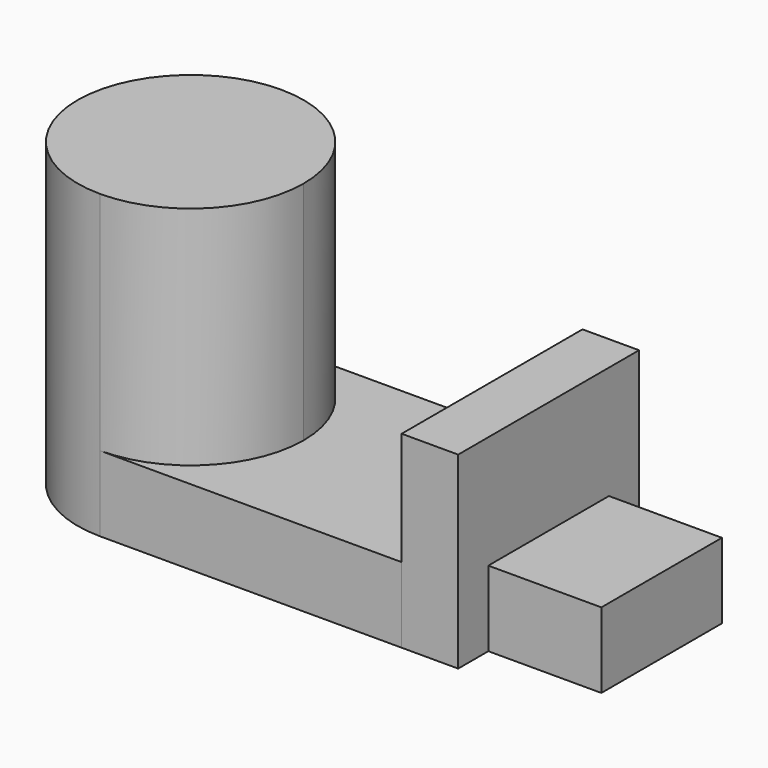
from build123d import *

# Parameters (mm, degrees)
F1_DEPTH = 50.8
F0_W     = 19.05
F0_H     = 25.4
F2_DEPTH = 12.7
F3_DEPTH = 31.75


with BuildPart() as f1:
    # F0 (on Top) → F1 (new body)
    with BuildSketch(Plane.XY):
        with BuildLine():
            ThreePointArc((0, -19.05), (13.470384, -13.470384), (19.05, 0))
            ThreePointArc((19.05, 0), (13.470384, 13.470384), (0, 19.05))
            Line((0, 19.05), (0, -19.05))
        make_face()
        with BuildLine():
            Line((0, -19.05), (0, 19.05))
            ThreePointArc((0, 19.05), (-19.05, 0), (0, -19.05))
        make_face()
    extrude(amount=F1_DEPTH)

    # F0 (on Top) → F2 (join)
    with BuildSketch(Plane.XY):
        with BuildLine():
            ThreePointArc((0, 19.05), (13.470384, 13.470384), (19.05, 0))
            ThreePointArc((19.05, 0), (13.470384, -13.470384), (0, -19.05))
            Line((0, -19.05), (50.8, -19.05))
            Line((50.8, -19.05), (50.8, 19.05))
            Line((50.8, 19.05), (0, 19.05))
        make_face()
        with Locations((69.85, 0)):
            Rectangle(F0_W, F0_H)
    extrude(amount=F2_DEPTH)


with BuildPart() as f3:
    # F0 (on Top) → F3 (new body)
    with BuildSketch(Plane.XY):
        Polygon((60.325, 19.05), (50.8, 19.05), (50.8, -19.05), (60.325, -19.05), (60.325, -12.7), (60.325, 12.7), align=None)
    extrude(amount=F3_DEPTH)


solid = Compound([f1.part, f3.part])
